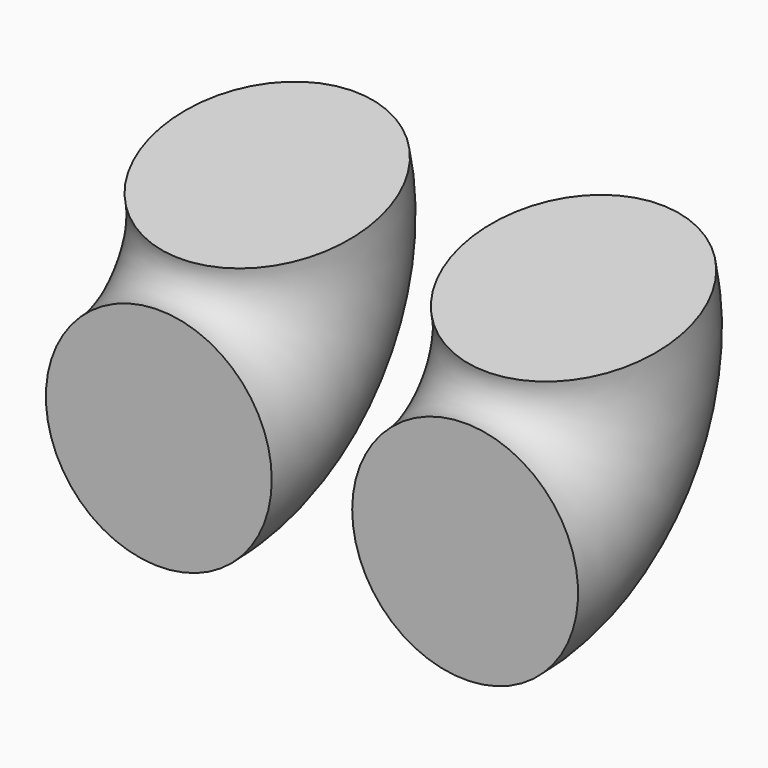
from build123d import *

# Parameters (mm, degrees)
F0_R     = 32.227647
F1_ANGLE = 105


with BuildPart() as f1:
    # F0 (on Front) → F1 (revolve)
    with BuildSketch(Plane.XZ):
        with Locations((-43.704621, -4.166234)):
            Circle(F0_R)
    revolve(axis=Axis((26.957986, 0, 35.862293), (1, 0, 0)), revolution_arc=F1_ANGLE)


with BuildPart() as f2_1:
    # F2: instance of F1
    add(f1.part.mirror(Plane.YZ))


solid = Compound([f1.part, f2_1.part])
